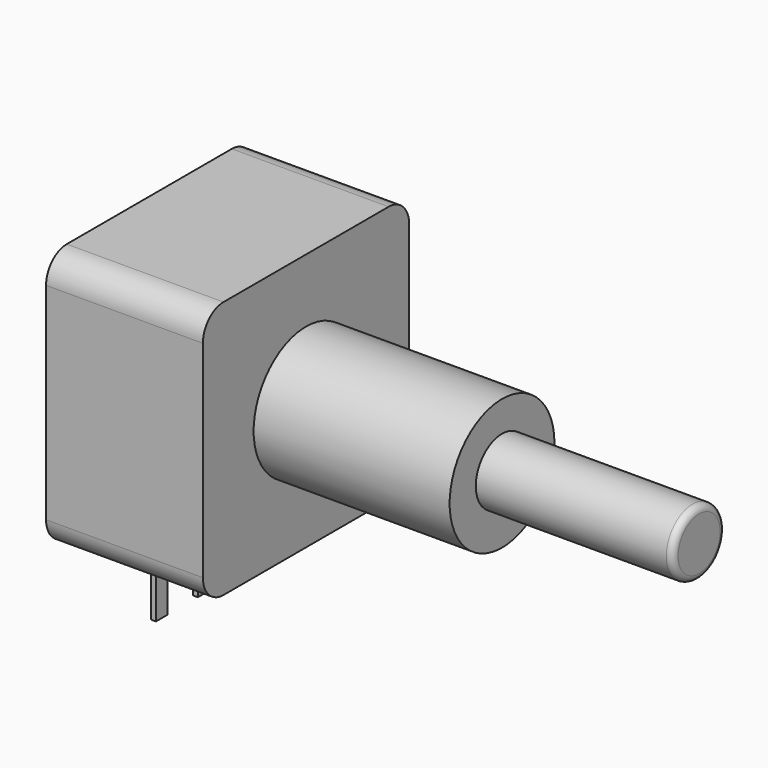
from build123d import *

# Parameters (mm, degrees)
SKETCH001_R       = 3.175
PAD001_DEPTH      = 9.5
SKETCH003_W       = 0.233334
SKETCH003_H       = 0.7
PAD002_DEPTH      = 1
PAD002_DEPTH_BACK = 3
SKETCH004_R       = 1.59
PAD003_DEPTH      = 9.55
FILLET_R          = 0.318
SKETCH_W          = 12.5
SKETCH_H          = 12.5
PAD_DEPTH         = 7.6
FILLET001_R       = 1.25


with BuildPart() as pad001:
    # Sketch001 → Pad001 (new body)
    with BuildSketch(Plane.YZ.offset(14.58)):
        with Locations((2.54, 6.85)):
            Circle(SKETCH001_R)
    extrude(amount=-PAD001_DEPTH)


with BuildPart() as pad002:
    # Sketch003 → Pad002 (new body, two sides)
    with BuildSketch(Plane(origin=(0, 0, 0), x_dir=(-1, 0, 0), z_dir=(0, 0, 1))) as pad002_sk:
        Rectangle(SKETCH003_W, SKETCH003_H)
        with Locations((0, -2.54)):
            Rectangle(SKETCH003_W, SKETCH003_H)
        with Locations((0, -5.08)):
            Rectangle(SKETCH003_W, SKETCH003_H)
    extrude(amount=PAD002_DEPTH)
    extrude(pad002_sk.sketch, amount=-PAD002_DEPTH_BACK)


with BuildPart() as fillet_body:
    # Sketch004 → Pad003 (new body)
    with BuildSketch(Plane.YZ.offset(14.58)):
        with Locations((2.54, 6.95)):
            Circle(SKETCH004_R)
    extrude(amount=PAD003_DEPTH)

    # Fillet
    fillet_edges = [fillet_body.edges().sort_by_distance(p)[0] for p in [
        (24.13, 0.95, 6.95),
    ]]
    fillet(fillet_edges, radius=FILLET_R)


with BuildPart() as fillet001:
    # Sketch → Pad (new body)
    with BuildSketch(Plane.YZ.offset(-2.52)):
        with Locations((2.54, 6.85)):
            Rectangle(SKETCH_W, SKETCH_H)
    extrude(amount=PAD_DEPTH)

    # Fillet001
    fillet001_edges = [fillet001.edges().sort_by_distance(p)[0] for p in [
        (1.28, -3.71, 13.1),
        (1.28, 8.79, 13.1),
        (1.28, -3.71, 0.6),
        (1.28, 8.79, 0.6),
    ]]
    fillet(fillet001_edges, radius=FILLET001_R)


solid = Compound([pad001.part, pad002.part, fillet_body.part, fillet001.part])
